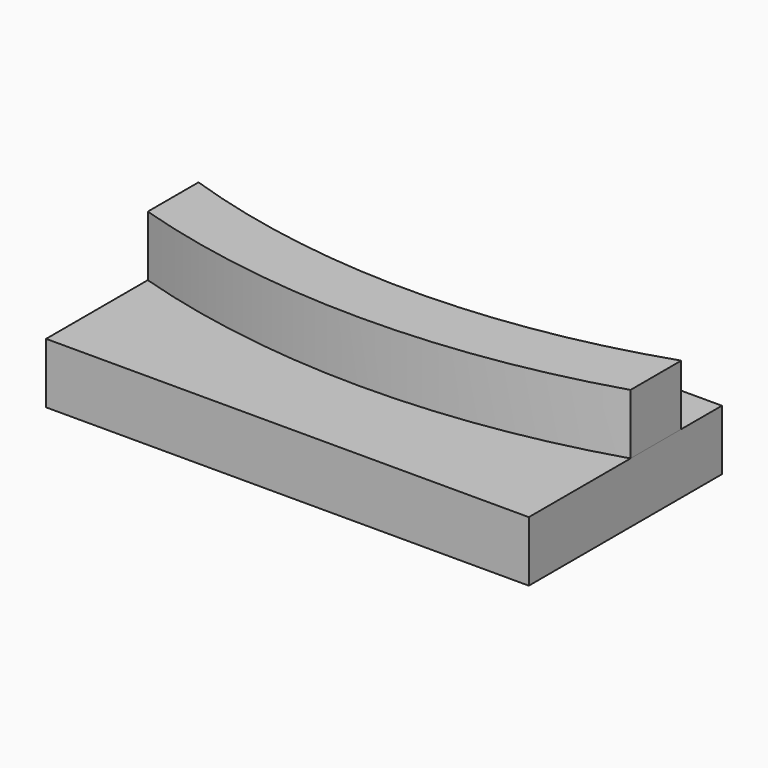
from build123d import *

# Parameters (mm, degrees)
F0_W     = 40
F0_H     = 20
F1_DEPTH = 5
F3_DEPTH = 5


with BuildPart() as f1:
    # F0 (on Top) → F1 (new body)
    with BuildSketch(Plane.XY):
        with Locations((20, 10)):
            Rectangle(F0_W, F0_H)
    extrude(amount=F1_DEPTH)


with BuildPart() as f3:
    # F2 (on face) → F3 (new body)
    with BuildSketch(Plane.XY.offset(5)):
        with BuildLine():
            Line((0, 15.786404), (0, 10.531015))
            ThreePointArc((0, 10.531015), (20, 7.5), (40, 10.531015))
            Line((40, 10.531015), (40, 15.786404))
            ThreePointArc((40, 15.786404), (20, 12.5), (0, 15.786404))
        make_face()
    extrude(amount=F3_DEPTH)


solid = Compound([f1.part, f3.part])
